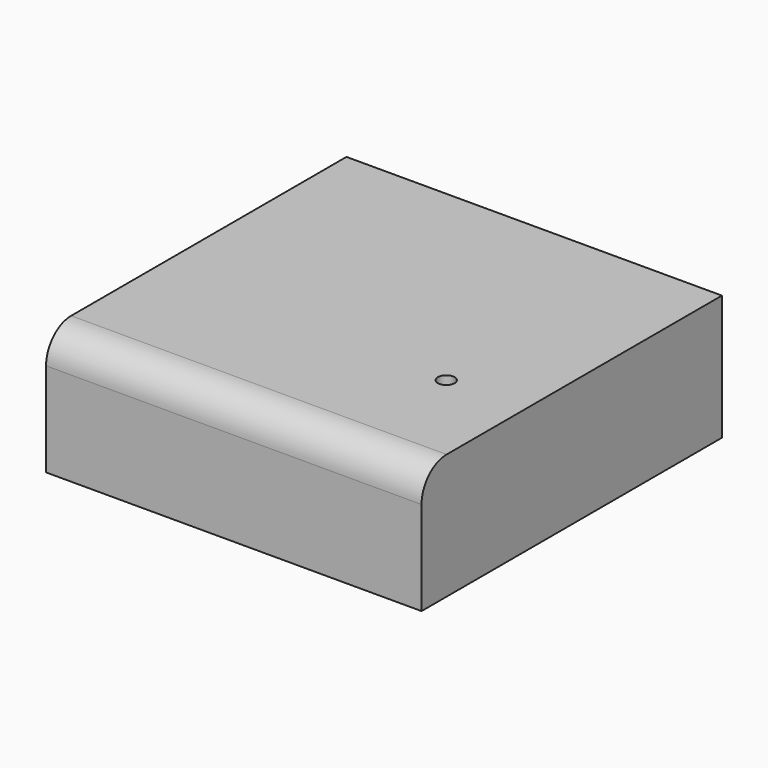
from build123d import *

# Parameters (mm, degrees)
F0_W     = 152.4
F0_H     = 50.8
F1_DEPTH = 76.2
F2_R     = 12.7
F4_D     = 6.7564
F5_W     = 31.75
F5_H     = 6.35
F6_DEPTH = 25.4


with BuildPart() as f1:
    # F0 (on Front) → F1 (new body, symmetric)
    with BuildSketch(Plane.XZ):
        Rectangle(F0_W, F0_H)
    extrude(amount=F1_DEPTH, both=True)

    # F2
    f2_edges = [f1.edges().sort_by_distance(p)[0] for p in [
        (0, -76.2, 25.4),
    ]]
    fillet(f2_edges, radius=F2_R)

    # F4 (through all)
    with Locations(Plane.XY.offset(25.4)):
        with Locations((44.2391075194, -23.7217675894)):
            Hole(F4_D / 2)

    # F5 (on face) → F6 (cut)
    with BuildSketch(Plane(origin=(-76.2, 0, 0), x_dir=(0, -1, 0), z_dir=(-1, 0, 0))):
        with Locations((-47.625, 9.525)):
            Rectangle(F5_W, F5_H)
    extrude(amount=-F6_DEPTH, mode=Mode.SUBTRACT)


solid = f1.part
